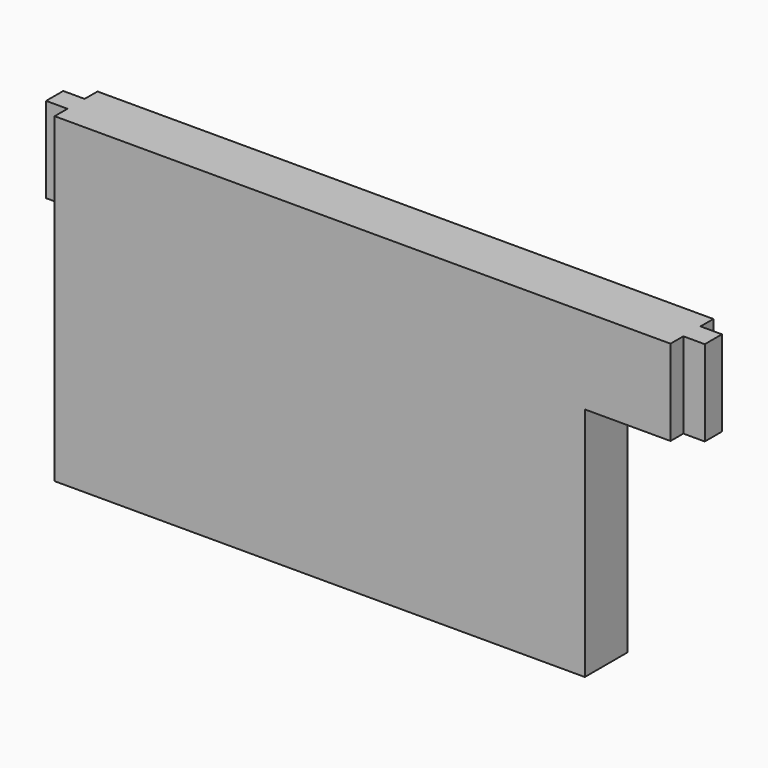
from build123d import *

# Parameters (mm, degrees)
F1_DEPTH = 31.75
F2_W     = 12.7
F2_H     = 50.8
F3_DEPTH = 12.7
F4_W     = 12.7
F4_H     = 50.8
F5_DEPTH = 12.7


with BuildPart() as f1:
    # F0 (on Front) → F1 (new body)
    with BuildSketch(Plane.XZ):
        Polygon((146.225058, 99.415574), (-218.899942, 99.415574), (-218.899942, -91.084426), (95.425058, -91.084426), (95.425058, 48.615574), (146.225058, 48.615574), align=None)
    extrude(amount=F1_DEPTH)

    # F2 (on face) → F3 (join)
    with BuildSketch(Plane.YZ.offset(146.225058)):
        with Locations((-15.875, 74.015574)):
            Rectangle(F2_W, F2_H)
    extrude(amount=F3_DEPTH)

    # F4 (on face) → F5 (join)
    with BuildSketch(Plane(origin=(-218.899942, 0, 0), x_dir=(0, -1, 0), z_dir=(-1, 0, 0))):
        with Locations((15.875, 74.015574)):
            Rectangle(F4_W, F4_H)
    extrude(amount=F5_DEPTH)


solid = f1.part
